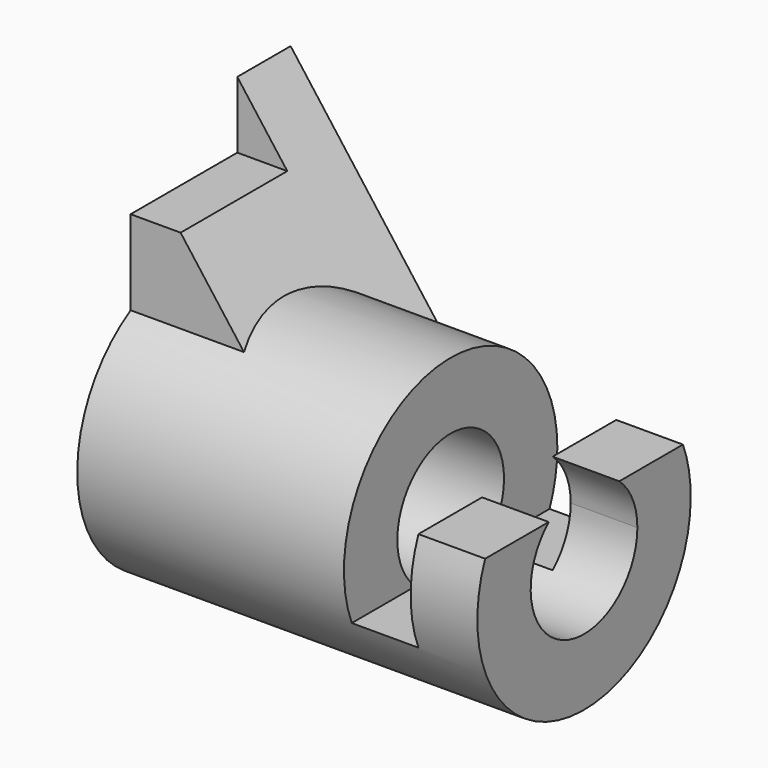
from build123d import *

# Parameters (mm, degrees)
F0_R          = 25.4
F0_R_2        = 12.7
F1_DEPTH      = 38.1
F3_DEPTH      = 12.7
F3_DEPTH_BACK = 25.4
F4_DEPTH      = 38.101
F5_W          = 25.4
F5_H          = 12.7
F6_DEPTH      = 76.201
F9_DEPTH      = 50.801


with BuildPart() as f1:
    # F0 (on Right) → F1 (new body, symmetric)
    with BuildSketch(Plane.YZ):
        Circle(F0_R)
        Circle(F0_R_2, mode=Mode.SUBTRACT)
    extrude(amount=F1_DEPTH, both=True)

    # F2 (on Front) → F3 (join, two sides)
    with BuildSketch(Plane.XZ) as f3_sk:
        Polygon((-38.1, 0), (0, 0), (-38.1, 50.8), align=None)
    extrude(amount=F3_DEPTH)
    extrude(f3_sk.sketch, amount=-F3_DEPTH_BACK)

    # F0 (on Right) → F4 (cut, through all)
    with BuildSketch(Plane.YZ):
        Circle(F0_R_2)
    extrude(amount=-F4_DEPTH, mode=Mode.SUBTRACT)

    # F5 (on face) → F6 (cut, through all)
    with BuildSketch(Plane(origin=(-38.1, 0, 0), x_dir=(0, -1, 0), z_dir=(-1, 0, 0))):
        with Locations((0, 44.45)):
            Rectangle(F5_W, F5_H)
    extrude(amount=-F6_DEPTH, mode=Mode.SUBTRACT)

    # F8 (on offset) → F9 (cut, through all)
    with BuildSketch(Plane.XZ.offset(25.4)):
        Polygon((12.7, 25.4), (12.7, -9.525), (25.4, -9.525), (25.4, 9.525), (38.1, 9.525), (38.1, 25.4), align=None)
    extrude(amount=-F9_DEPTH, mode=Mode.SUBTRACT)


solid = f1.part
